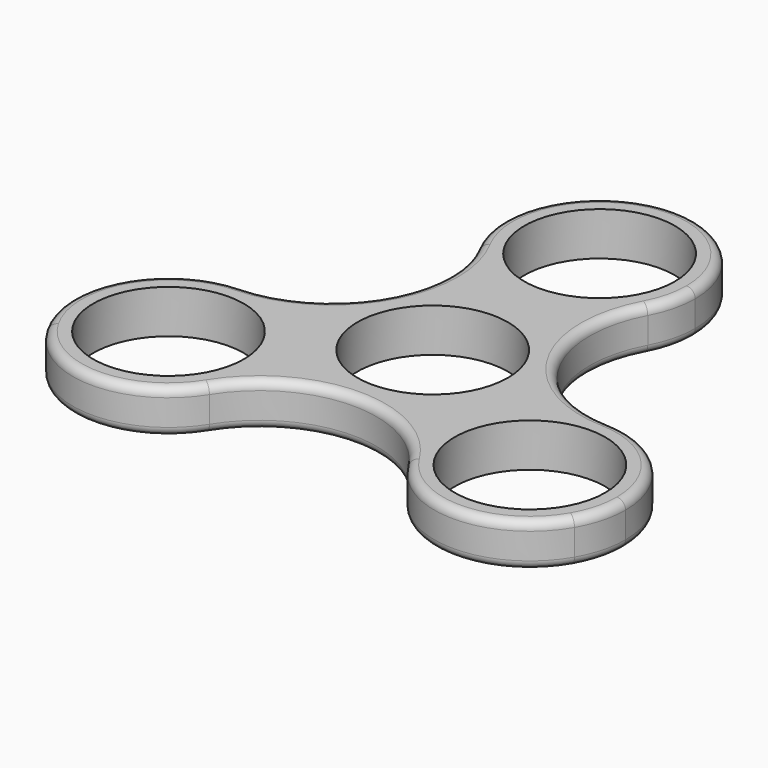
from build123d import *

# Parameters (mm, degrees)
F0_R     = 10.9982
F0_R_2   = 13.97
F1_DEPTH = 6.35
F2_R     = 1.27


with BuildPart() as f1:
    # F0 (on Top) → F1 (new body)
    with BuildSketch(Plane.XY):
        with BuildLine():
            ThreePointArc((13.97, 30.48), (9.8782817686, 40.3582816978), (1.001e-07, 44.45))
            ThreePointArc((1.001e-07, 44.45), (-11.9860878077, 37.6559737364), (-12.3137939843, 23.8821687114))
            ThreePointArc((-12.3137939843, 23.8821687114), (-6.04723e-05, 16.5100000001), (12.3137368634, 23.8820621056))
            ThreePointArc((12.3137368634, 23.8820621056), (13.5496089239, 27.0786770208), (13.97, 30.48))
        make_face()
        with Locations((0, 30.48)):
            Circle(F0_R, mode=Mode.SUBTRACT)
        with BuildLine():
            ThreePointArc((14.5256040465, -22.605039992), (26.617925333, -29.208244363), (38.4948290898, -22.2250001877))
            ThreePointArc((38.4948290898, -22.2250001877), (39.8904380726, -18.8557021648), (40.3664543073, -15.24))
            ThreePointArc((40.3664543073, -15.24), (36.4300983572, -5.5195634316), (26.8393409099, -1.2770221136))
            ThreePointArc((26.8393409099, -1.2770221136), (14.2980794165, -8.255), (14.5256040465, -22.605039992))
        make_face()
        with Locations((26.3964543073, -15.24)):
            Circle(F0_R, mode=Mode.SUBTRACT)
        with BuildLine():
            ThreePointArc((-26.8394617936, -1.2770259483), (-38.6040736121, -8.4477300621), (-38.4948294602, -22.2249995463))
            ThreePointArc((-38.4948294602, -22.2249995463), (-26.6179257033, -29.2082443571), (-14.5256040465, -22.605039992))
            ThreePointArc((-14.5256040465, -22.605039992), (-12.9614872783, -19.0691723555), (-12.4264543073, -15.24))
            ThreePointArc((-12.4264543073, -15.24), (-16.6760611719, -5.2063138732), (-26.8394617936, -1.2770259483))
        make_face()
        with Locations((-26.3964543073, -15.24)):
            Circle(F0_R, mode=Mode.SUBTRACT)
        with BuildLine():
            ThreePointArc((12.3137368634, 23.8820621056), (-6.04723e-05, 16.5100000001), (-12.3137939843, 23.8821687114))
            ThreePointArc((-12.3137939843, 23.8821687114), (-12.5773911933, 7.2615601912), (-26.8394617936, -1.2770259483))
            ThreePointArc((-26.8394617936, -1.2770259483), (-16.6760611719, -5.2063138732), (-12.4264543073, -15.24))
            ThreePointArc((-12.4264543073, -15.24), (-12.9614872783, -19.0691723555), (-14.5256040465, -22.605039992))
            ThreePointArc((-14.5256040465, -22.605039992), (0, -14.5229707459), (14.5256040465, -22.605039992))
            ThreePointArc((14.5256040465, -22.605039992), (14.2980794165, -8.255), (26.8393409099, -1.2770221136))
            ThreePointArc((26.8393409099, -1.2770221136), (12.5772616044, 7.2614853729), (12.3137368634, 23.8820621056))
        make_face()
        Circle(F0_R_2, mode=Mode.SUBTRACT)
        Circle(F0_R_2)
        Circle(F0_R, mode=Mode.SUBTRACT)
    extrude(amount=F1_DEPTH)

    # F2
    f2_edges = [f1.edges().sort_by_distance(p)[0] for p in [
        (38.494829, -22.225, 6.35),
        (38.494829, -22.225, 0),
    ]]
    fillet(f2_edges, radius=F2_R)


solid = f1.part
